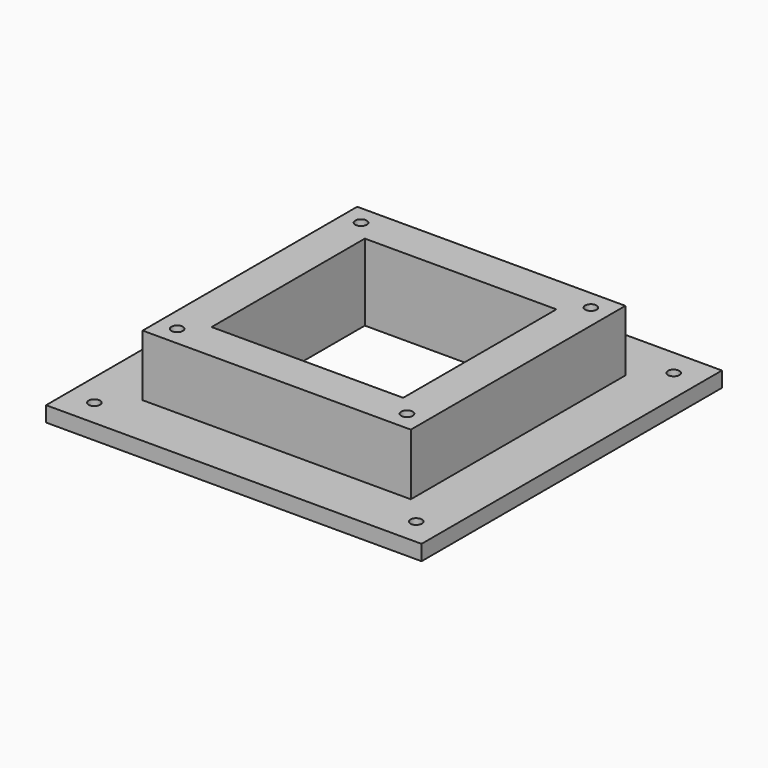
from build123d import *

# Parameters (mm, degrees)
SKETCH001_W     = 49
SKETCH001_H     = 49
PAD_DEPTH       = 1
SKETCH002_W     = 35
SKETCH002_H     = 35
PAD001_DEPTH    = 8
SKETCH003_W     = 25
SKETCH003_H     = 25
POCKET_DEPTH    = 10
SKETCH004_R     = 0.75
POCKET001_DEPTH = 2
SKETCH005_R     = 0.75
POCKET002_DEPTH = 10


with BuildPart() as part:
    # Sketch001 → Pad (new body, symmetric)
    with BuildSketch(Plane.XY):
        with Locations((24.5, 24.5)):
            Rectangle(SKETCH001_W, SKETCH001_H)
    extrude(amount=PAD_DEPTH, both=True)

    # Sketch002 (on Face6 of Pad) → Pad001 (join)
    with BuildSketch(Plane.XY.offset(1)):
        with Locations((24.5, 24.5)):
            Rectangle(SKETCH002_W, SKETCH002_H)
    extrude(amount=PAD001_DEPTH)

    # Sketch003 (on Face11 of Pad001) → Pocket (cut)
    with BuildSketch(Plane.XY.offset(9)):
        with Locations((24.5, 24.5)):
            Rectangle(SKETCH003_W, SKETCH003_H)
    extrude(amount=-POCKET_DEPTH, mode=Mode.SUBTRACT)

    # Sketch004 (on Face5 of Pocket) → Pocket001 (cut)
    with BuildSketch(Plane.XY.offset(1)):
        with Locations((3.5, 3.5)):
            Circle(SKETCH004_R)
        with Locations((3.5, 45.5)):
            Circle(SKETCH004_R)
        with Locations((45.5, 3.5)):
            Circle(SKETCH004_R)
        with Locations((45.5, 45.5)):
            Circle(SKETCH004_R)
    extrude(amount=-POCKET001_DEPTH, mode=Mode.SUBTRACT)

    # Sketch005 (on Face19 of Pocket001) → Pocket002 (cut)
    with BuildSketch(Plane.XY.offset(9)):
        with Locations((9.5, 39.5)):
            Circle(SKETCH005_R)
        with Locations((39.5, 39.5)):
            Circle(SKETCH005_R)
        with Locations((39.5, 9.5)):
            Circle(SKETCH005_R)
        with Locations((9.5, 9.5)):
            Circle(SKETCH005_R)
    extrude(amount=-POCKET002_DEPTH, mode=Mode.SUBTRACT)


solid = part.part
